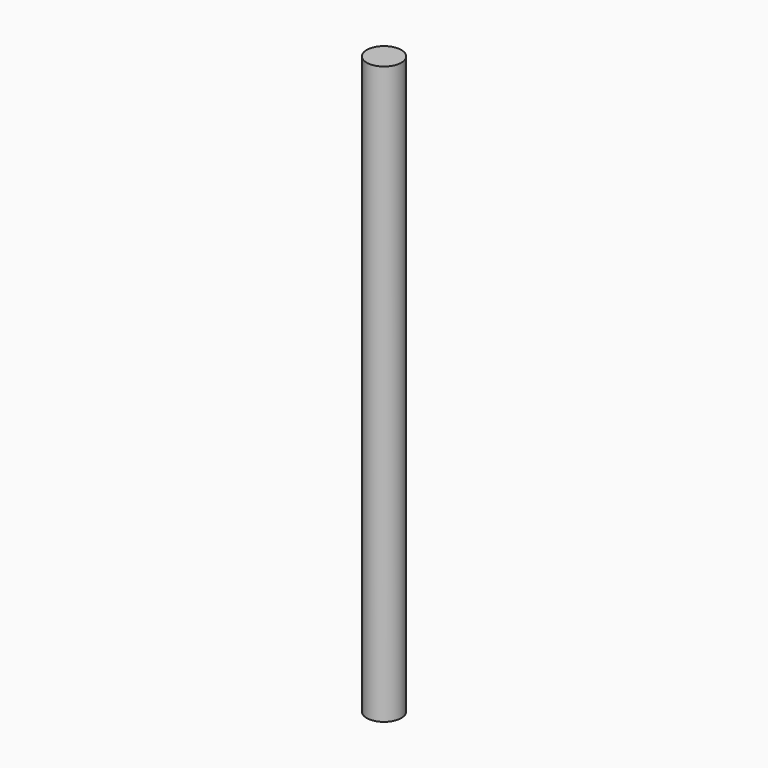
from build123d import *

# Parameters (mm, degrees)
SKETCH_R  = 1.5
PAD_DEPTH = 50


with BuildPart() as part:
    # Sketch → Pad (new body)
    with BuildSketch(Plane.XY):
        Circle(SKETCH_R)
    extrude(amount=PAD_DEPTH)


solid = part.part
